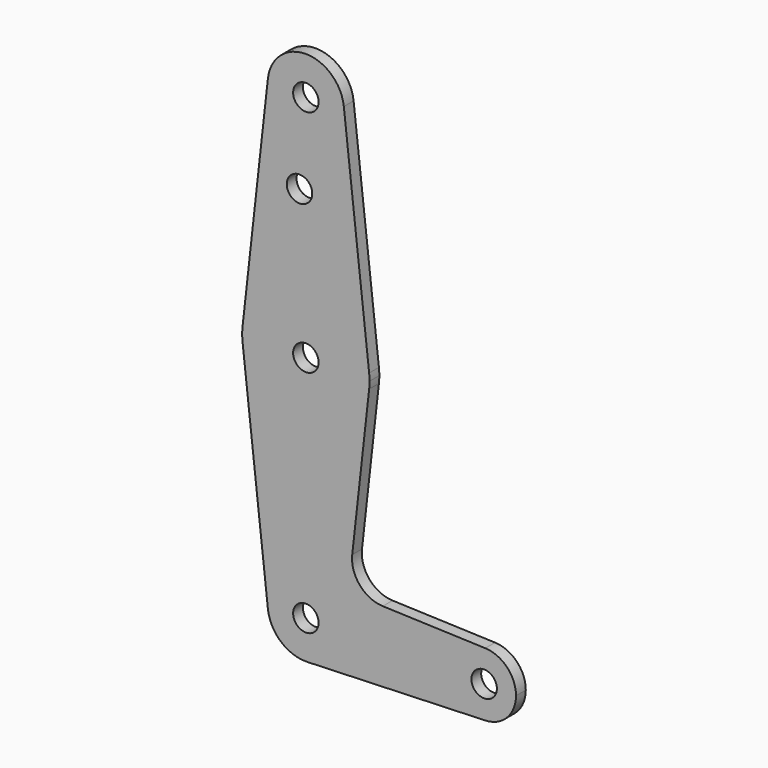
from build123d import *

# Parameters (mm, degrees)
F0_R     = 3.175
F1_DEPTH = 3.048


with BuildPart() as f1:
    # F0 (on Front) → F1 (new body)
    with BuildSketch(Plane.XZ):
        with BuildLine():
            ThreePointArc((-59.114024, -73.018923), (-52.599794, -70.113827), (-49.929202, -63.5))
            ThreePointArc((-49.929202, -63.5), (-59.98419, -53.989756), (-68.920223, -64.558333))
            ThreePointArc((-68.920223, -64.558333), (-65.676392, -70.711794), (-59.114024, -73.018923))
        make_face()
        with Locations((-59.454202, -63.5)):
            Circle(F0_R, mode=Mode.SUBTRACT)
        with BuildLine():
            ThreePointArc((-68.920223, -64.558333), (-59.98419, -53.989756), (-49.929202, -63.5))
            ThreePointArc((-49.929202, -63.5), (-52.599794, -70.113827), (-59.114024, -73.018923))
            Line((-59.114024, -73.018923), (-14.72072, -71.432436))
            ThreePointArc((-14.72072, -71.432436), (-22.941702, -63.5), (-14.72072, -55.567564))
            Line((-14.72072, -55.567564), (-40.276782, -54.654265))
            ThreePointArc((-40.276782, -54.654265), (-46.01229, -51.902591), (-47.893818, -45.825781))
            Line((-47.893818, -45.825781), (-43.6775, -8.113889))
            ThreePointArc((-43.6775, -8.113889), (-59.454202, -22.225), (-75.230904, -8.113889))
            Line((-75.230904, -8.113889), (-68.920223, -64.558333))
        make_face()
        with BuildLine():
            ThreePointArc((-75.230904, -4.586111), (-75.329202, -6.35), (-75.230904, -8.113889))
            ThreePointArc((-75.230904, -8.113889), (-59.454202, -22.225), (-43.6775, -8.113889))
            ThreePointArc((-43.6775, -8.113889), (-43.603796, -7.233313), (-43.579202, -6.35))
            ThreePointArc((-43.579202, -6.35), (-43.603796, -5.466687), (-43.6775, -4.586111))
            ThreePointArc((-43.6775, -4.586111), (-59.454202, 9.525), (-75.230904, -4.586111))
        make_face()
        with Locations((-59.454202, -6.35)):
            Circle(F0_R, mode=Mode.SUBTRACT)
        with BuildLine():
            ThreePointArc((-14.72072, -55.567564), (-22.941702, -63.5), (-14.72072, -71.432436))
            ThreePointArc((-14.72072, -71.432436), (-9.292195, -69.011523), (-7.066702, -63.5))
            ThreePointArc((-7.066702, -63.5), (-9.292195, -57.988477), (-14.72072, -55.567564))
        make_face()
        with Locations((-15.004202, -63.5)):
            Circle(F0_R, mode=Mode.SUBTRACT)
        with BuildLine():
            Line((-68.920223, 51.858333), (-75.230904, -4.586111))
            ThreePointArc((-75.230904, -4.586111), (-59.454202, 9.525), (-43.6775, -4.586111))
            Line((-43.6775, -4.586111), (-49.988181, 51.858333))
            ThreePointArc((-49.988181, 51.858333), (-49.943958, 51.329988), (-49.929202, 50.8))
            ThreePointArc((-49.929202, 50.8), (-59.98419, 41.289756), (-68.920223, 51.858333))
        make_face()
        with Locations((-61.041702, 30.1752)):
            Circle(F0_R, mode=Mode.SUBTRACT)
        with BuildLine():
            ThreePointArc((-49.988181, 51.858333), (-59.454202, 60.325), (-68.920223, 51.858333))
            ThreePointArc((-68.920223, 51.858333), (-59.98419, 41.289756), (-49.929202, 50.8))
            ThreePointArc((-49.929202, 50.8), (-49.943958, 51.329988), (-49.988181, 51.858333))
        make_face()
        with Locations((-59.454202, 50.8)):
            Circle(F0_R, mode=Mode.SUBTRACT)
    extrude(amount=F1_DEPTH)


solid = f1.part
